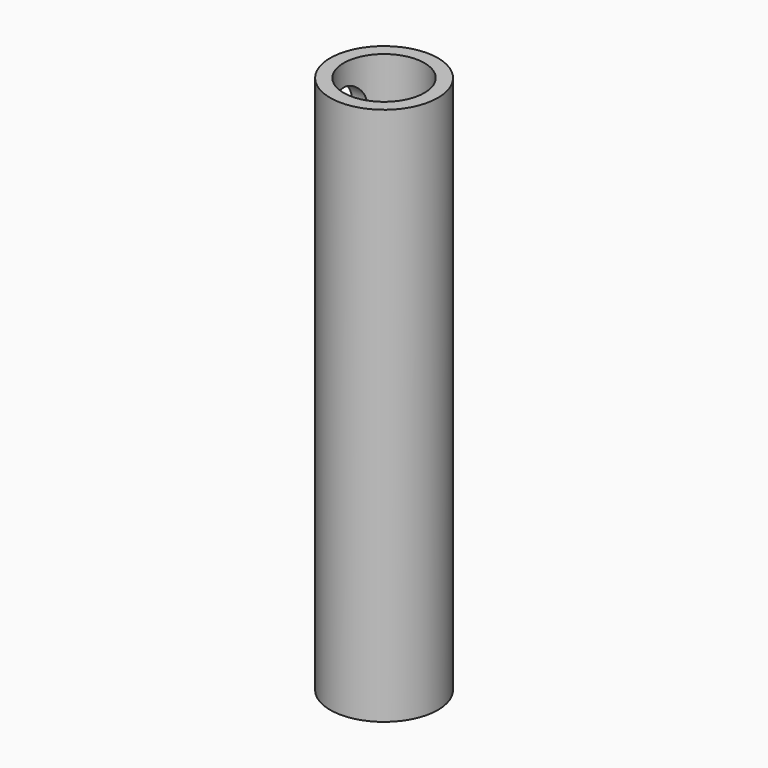
from build123d import *

# Parameters (mm, degrees)
F0_R     = 6.35
F0_R_2   = 4.7625
F1_DEPTH = 63.5
F2_DEPTH = 50.8
F4_DEPTH = 25.4


with BuildPart() as f1:
    # F0 (on Top) → F1 (new body)
    with BuildSketch(Plane.XY):
        Circle(F0_R)
        Circle(F0_R_2, mode=Mode.SUBTRACT)
        Circle(F0_R_2)
    extrude(amount=-F1_DEPTH)

    # F0 (on Top) → F2 (cut)
    with BuildSketch(Plane.XY):
        Circle(F0_R_2)
    extrude(amount=-F2_DEPTH, mode=Mode.SUBTRACT)

    # F3 (on Right) → F4 (cut)
    with BuildSketch(Plane.YZ):
        with BuildLine():
            Line((2.54, -30.48), (2.54, -5.08))
            ThreePointArc((2.54, -5.08), (0, -2.54), (-2.54, -5.08))
            Line((-2.54, -5.08), (-2.54, -30.48))
            ThreePointArc((-2.54, -30.48), (0, -33.02), (2.54, -30.48))
        make_face()
    extrude(amount=-F4_DEPTH, mode=Mode.SUBTRACT)


solid = f1.part
